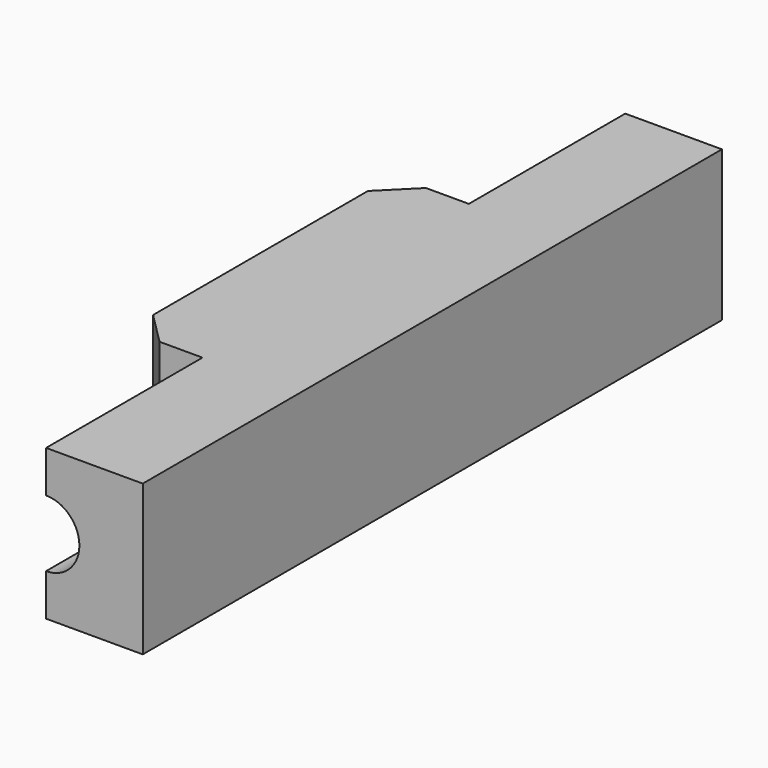
from build123d import *

# Parameters (mm, degrees)
SKETCH_W        = 7
SKETCH_H        = 7
SKETCH_R        = 1.55
PAD_DEPTH       = 33.7
SKETCH001_W     = 3.5
SKETCH001_H     = 9.1
POCKET_DEPTH    = 7.001
POCKET_FACE10_W = 33.7
POCKET_FACE10_H = 7
PAD001_DEPTH    = 1
CHAMFER_SIZE    = 1.5


with BuildPart() as part:
    # Sketch → Pad (new body)
    with BuildSketch(Plane.XZ):
        Rectangle(SKETCH_W, SKETCH_H)
        Circle(SKETCH_R, mode=Mode.SUBTRACT)
    extrude(amount=PAD_DEPTH)

    # Sketch001 (on Face2 of Pad) → Pocket (cut, through all)
    with BuildSketch(Plane(origin=(0, 0, -3.5), x_dir=(1, 0, 0), z_dir=(0, 0, -1))):
        with Locations((-1.75, 29.15)):
            Rectangle(SKETCH001_W, SKETCH001_H)
        with Locations((-1.75, 4.55)):
            Rectangle(SKETCH001_W, SKETCH001_H)
    extrude(amount=-POCKET_DEPTH, mode=Mode.SUBTRACT)

    # Pocket Face10 → Pad001 (add)
    with BuildSketch(Plane(origin=(3.5, -16.85, 0), x_dir=(0, -1, 0), z_dir=(1, 0, 0))):
        Rectangle(POCKET_FACE10_W, POCKET_FACE10_H)
    extrude(amount=PAD001_DEPTH)

    # Chamfer
    chamfer_edges = [part.edges().sort_by_distance(p)[0] for p in [
        (-3.5, -24.6, 0),
        (-3.5, -9.1, 0),
    ]]
    chamfer(chamfer_edges, length=CHAMFER_SIZE)


solid = part.part
